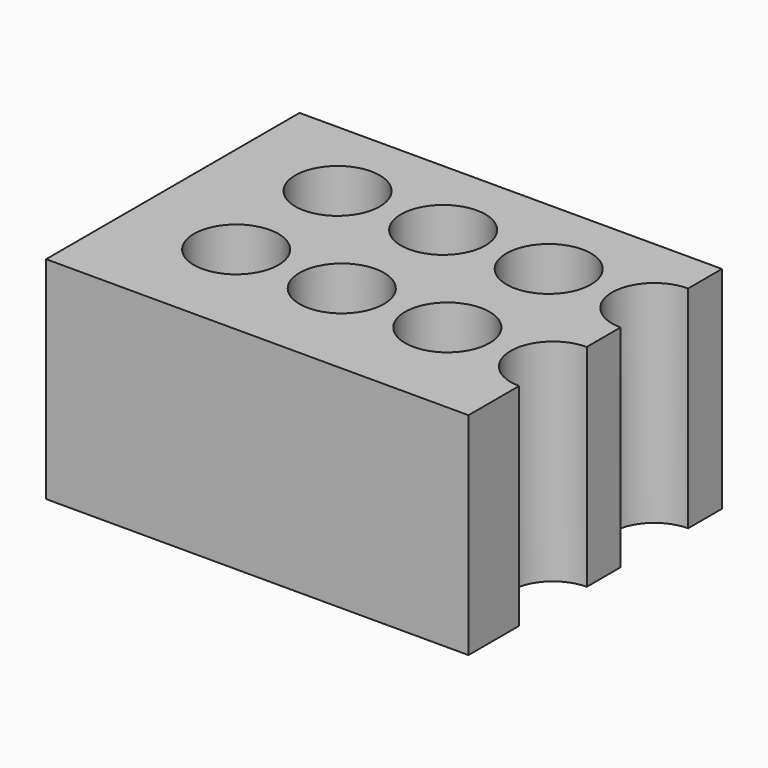
from build123d import *

# Parameters (mm, degrees)
BOX_W               = 20
BOX_H               = 15
BOX_DEPTH           = 10
SKETCH_R            = 2
POCKET_DEPTH        = 11
LINEARPATTERN_COUNT = 3
LINEARPATTERN_PITCH = 5


with BuildPart() as part:
    # Box → Box (new body)
    with BuildSketch(Plane.XY):
        with Locations((10, 7.5)):
            Rectangle(BOX_W, BOX_H)
    extrude(amount=BOX_DEPTH)

    # Sketch (on Face6 of BaseFeature) → Pocket (cut)
    with BuildSketch(Plane.XY.offset(10)):
        with Locations((5, 5)):
            Circle(SKETCH_R)
        with Locations((10, 5)):
            Circle(SKETCH_R)
        with Locations((15, 5)):
            Circle(SKETCH_R)
        with Locations((5, 11)):
            Circle(SKETCH_R)
        with Locations((10, 11)):
            Circle(SKETCH_R)
        with Locations((15, 11)):
            Circle(SKETCH_R)
    pocket = extrude(amount=-POCKET_DEPTH, mode=Mode.SUBTRACT)

    # LinearPattern: Pocket ×3
    with Locations(*[(i * LINEARPATTERN_PITCH, 0, 0) for i in range(1, LINEARPATTERN_COUNT)]):
        add(pocket, mode=Mode.SUBTRACT)


solid = part.part
